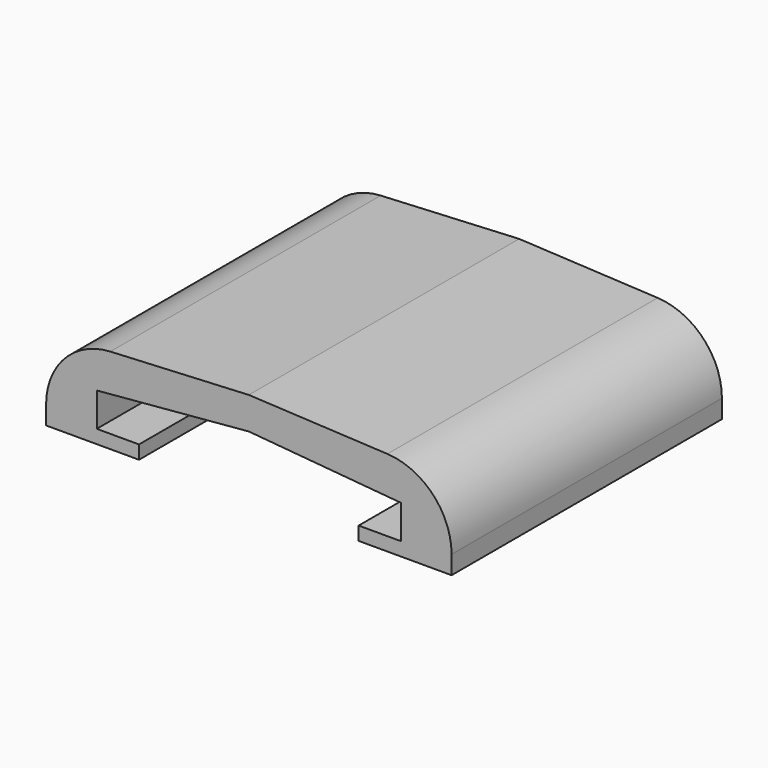
from build123d import *

# Parameters (mm, degrees)
F1_DEPTH = 25.4
F2_R     = 5.08


with BuildPart() as f1:
    # F0 (on Front) → F1 (new body)
    with BuildSketch(Plane.XZ):
        Polygon((-11.43, 14.737148), (-11.43, 17.277148), (0, 18.277143), (11.43, 17.277148), (11.43, 14.737148), (8.255, 14.737148), (8.255, 13.721148), (15.24, 13.721148), (15.24, 19.940279), (0, 20.697519), (-15.24, 19.940279), (-15.24, 13.721148), (-8.255, 13.721148), (-8.255, 14.737148), align=None)
    extrude(amount=F1_DEPTH)

    # F2
    f2_edges = [f1.edges().sort_by_distance(p)[0] for p in [
        (15.24, -12.7, 19.940279),
        (-15.24, -12.7, 19.940279),
    ]]
    fillet(f2_edges, radius=F2_R)


solid = f1.part
